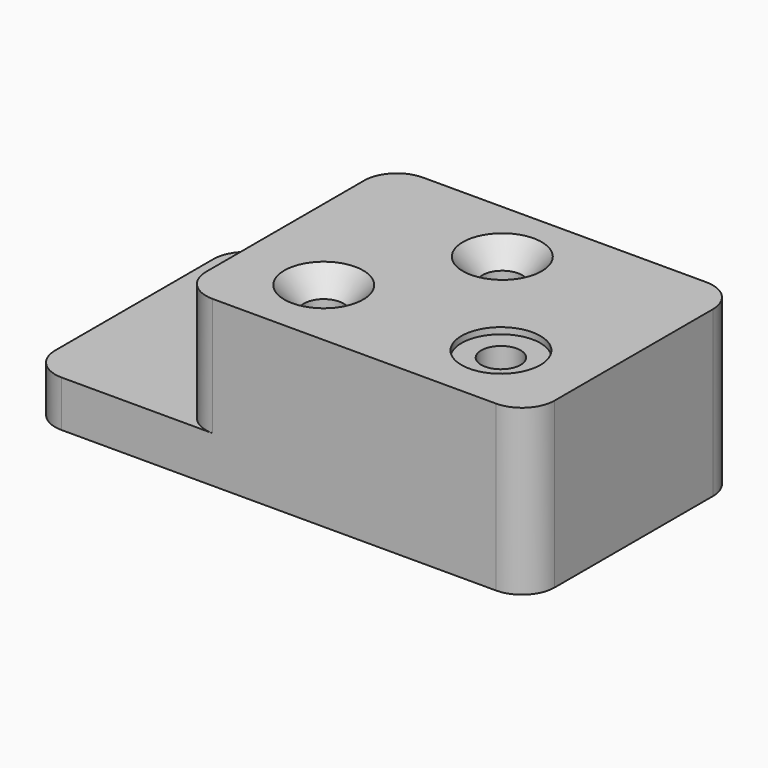
from build123d import *

# Parameters (mm, degrees)
F1_DEPTH       = 22.352
F2_DEPTH       = 79.502
F4_D           = 19.05
F4_CSINK_D     = 38.1
F4_CSINK_ANGLE = 82
F6_D           = 19.05
F6_START       = 57.15
F6_CBORE_D     = 38.1
F6_CBORE_DEPTH = 3.048


with BuildPart() as f1:
    # F0 (on Top) → F1 (new body)
    with BuildSketch(Plane.XY):
        with BuildLine():
            Line((-152.654, -63.5), (-15.748, -63.5))
            ThreePointArc((-15.748, -63.5), (-4.6124824099, -58.8875175901), (0, -47.752))
            Line((0, -47.752), (0, 47.752))
            ThreePointArc((0, 47.752), (-4.6124824099, 58.8875175901), (-15.748, 63.5))
            Line((-15.748, 63.5), (-152.654, 63.5))
            ThreePointArc((-152.654, 63.5), (-163.7895175901, 58.8875175901), (-168.402, 47.752))
            Line((-168.402, 47.752), (-168.402, -47.752))
            ThreePointArc((-168.402, -47.752), (-163.7895175901, -58.8875175901), (-152.654, -63.5))
        make_face()
        with BuildLine():
            Line((-225.552, -63.5), (-152.654, -63.5))
            ThreePointArc((-152.654, -63.5), (-163.7895175901, -58.8875175901), (-168.402, -47.752))
            Line((-168.402, -47.752), (-168.402, 47.752))
            ThreePointArc((-168.402, 47.752), (-163.7895175901, 58.8875175901), (-152.654, 63.5))
            Line((-152.654, 63.5), (-225.552, 63.5))
            ThreePointArc((-225.552, 63.5), (-236.6875175901, 58.8875175901), (-241.3, 47.752))
            Line((-241.3, 47.752), (-241.3, -47.752))
            ThreePointArc((-241.3, -47.752), (-236.6875175901, -58.8875175901), (-225.552, -63.5))
        make_face()
    extrude(amount=F1_DEPTH)

    # F0 (on Top) → F2 (join)
    with BuildSketch(Plane.XY):
        with BuildLine():
            Line((-152.654, -63.5), (-15.748, -63.5))
            ThreePointArc((-15.748, -63.5), (-4.6124824099, -58.8875175901), (0, -47.752))
            Line((0, -47.752), (0, 47.752))
            ThreePointArc((0, 47.752), (-4.6124824099, 58.8875175901), (-15.748, 63.5))
            Line((-15.748, 63.5), (-152.654, 63.5))
            ThreePointArc((-152.654, 63.5), (-163.7895175901, 58.8875175901), (-168.402, 47.752))
            Line((-168.402, 47.752), (-168.402, -47.752))
            ThreePointArc((-168.402, -47.752), (-163.7895175901, -58.8875175901), (-152.654, -63.5))
        make_face()
    extrude(amount=F2_DEPTH)

    # F4 (through all)
    with Locations(Plane.XY.offset(79.502)):
        with Locations((-88.9, 31.75), (-127, -28.448)):
            CounterSinkHole(F4_D / 2, F4_CSINK_D / 2, counter_sink_angle=F4_CSINK_ANGLE)

    # F6 (through all)
    # its depths count from where the whole tool has entered the part; down to there all is cleared
    with Locations(Plane.XY.offset(79.502)):
        with Locations((-206.248, 31.75, -F6_START), (-41.402, -28.448, 0)):
            CounterBoreHole(F6_D / 2, F6_CBORE_D / 2, F6_CBORE_DEPTH)


solid = f1.part
